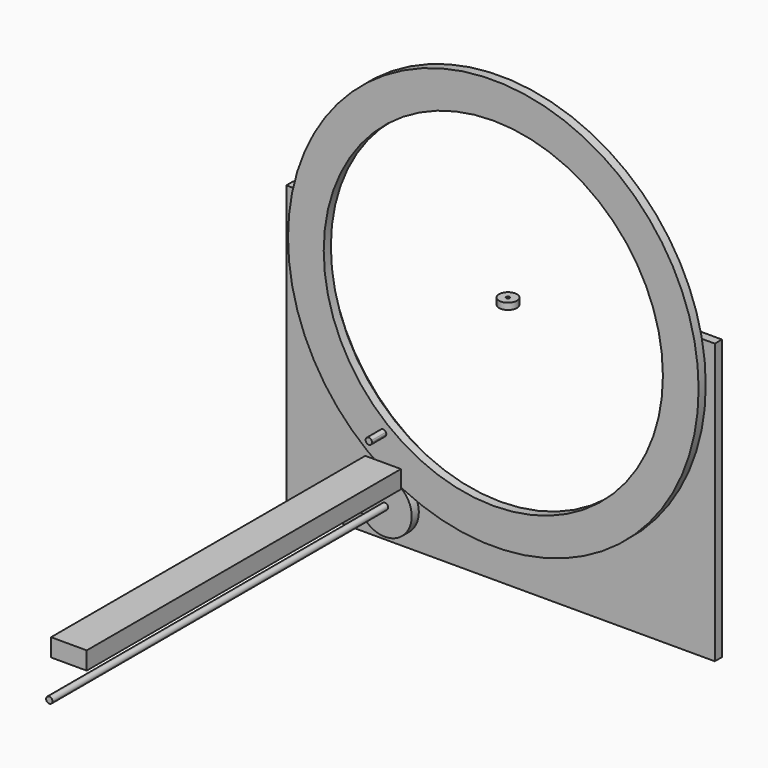
from build123d import *

# Parameters (mm, degrees)
F0_R     = 575
F0_R_2   = 475
F1_DEPTH = 25
F0_R_3   = 75
F0_R_4   = 9
F2_DEPTH = 1200
F3_R     = 25
F3_R_2   = 5
F4_DEPTH = 18
F5_R     = 75
F5_R_2   = 9
F6_DEPTH = 25
F8_DEPTH = 50
F9_DEPTH = 1100


with BuildPart() as f1:
    # F0 (on Front) → F1 (new body)
    with BuildSketch(Plane.XZ):
        Circle(F0_R)
        Circle(F0_R_2, mode=Mode.SUBTRACT)
    extrude(amount=F1_DEPTH)


with BuildPart() as f1b:
    # F0 (on Front) → F1, piece 2 (new body)
    with BuildSketch(Plane.XZ):
        with Locations((-303.5879433155, -575)):
            Circle(F0_R_3)
        with Locations((-303.5879433155, -575)):
            Circle(F0_R_4, mode=Mode.SUBTRACT)
    extrude(amount=F1_DEPTH)


with BuildPart() as f2:
    # F0 (on Front) → F2 (new body)
    with BuildSketch(Plane.XZ):
        with Locations((-303.5879433155, -575)):
            Circle(F0_R_4)
    extrude(amount=F2_DEPTH)


with BuildPart() as f4:
    # F3 (on Top) → F4 (new body)
    with BuildSketch(Plane.XY):
        with Locations((0, 26.3223070651)):
            Circle(F3_R)
        with Locations((0, 26.3223070651)):
            Circle(F3_R_2, mode=Mode.SUBTRACT)
    extrude(amount=F4_DEPTH)


with BuildPart() as f6:
    # F5 (on Front) → F6 (new body)
    with BuildSketch(Plane.XZ):
        with BuildLine():
            ThreePointArc((564.3566034894, 110.1209521294), (572.3329655919, 55.3170543033), (575, 0))
            ThreePointArc((575, 0), (-55.3170543033, -572.3329655919), (-564.3566034894, 110.1209521294))
            Line((-564.3566034894, 110.1209521294), (-599.7295975685, 110.1209521294))
            Line((-599.7295975685, 110.1209521294), (-599.7295975685, -673.1666922569))
            Line((-599.7295975685, -673.1666922569), (600.2704024315, -673.1666922569))
            Line((600.2704024315, -673.1666922569), (600.2704024315, 110.1209521294))
            Line((600.2704024315, 110.1209521294), (564.3566034894, 110.1209521294))
        make_face()
        with Locations((-303.5879433155, -575)):
            Circle(F5_R, mode=Mode.SUBTRACT)
        with BuildLine():
            ThreePointArc((-564.3566034894, 110.1209521294), (-55.3170543033, -572.3329655919), (575, 0))
            ThreePointArc((575, 0), (572.3329655919, 55.3170543033), (564.3566034894, 110.1209521294))
            Line((564.3566034894, 110.1209521294), (486.7541368029, 110.1209521294))
            ThreePointArc((486.7541368029, 110.1209521294), (495.9704910403, 55.4029404449), (499.0553213749, 0))
            ThreePointArc((499.0553213749, 0), (-55.4029404449, -495.9704910403), (-486.7541368029, 110.1209521294))
            Line((-486.7541368029, 110.1209521294), (-564.3566034894, 110.1209521294))
        make_face()
        with Locations((-303.5879433155, -575)):
            Circle(F5_R)
        with Locations((-303.5879433155, -575)):
            Circle(F5_R_2, mode=Mode.SUBTRACT)
    extrude(amount=-F6_DEPTH)


with BuildPart() as f8:
    # F7 (on face) → F8 (new body)
    with BuildSketch(Plane.XZ.offset(25)):
        with BuildLine():
            ThreePointArc((-316.6183916588, -391.2097421513), (-310.9458954187, -404.2440885601), (-299.7197065353, -395.5237627029))
            ThreePointArc((-299.7197065353, -395.5237627029), (-299.9993806781, -393.2975738196), (-300.8210214118, -391.2097421513))
            ThreePointArc((-300.8210214118, -391.2097421513), (-308.7197065353, -386.5237627029), (-316.6183916588, -391.2097421513))
        make_face()
    extrude(amount=F8_DEPTH)


with BuildPart() as f9:
    # F7 (on face) → F9 (new body)
    with BuildSketch(Plane.XZ.offset(25)):
        with BuildLine():
            Line((-258.7197065353, -513.5066829655), (-258.7197065353, -468.2944536209))
            Line((-258.7197065353, -468.2944536209), (-333.6544690363, -468.2944536209))
            ThreePointArc((-333.6544690363, -468.2944536209), (-297.0485269979, -492.3283179022), (-258.7197065354, -513.5066829655))
        make_face()
        with BuildLine():
            ThreePointArc((-258.7197065354, -513.5066829655), (-297.0485269979, -492.3283179022), (-333.6544690363, -468.2944536209))
            Line((-333.6544690363, -468.2944536209), (-358.7197065353, -468.2944536209))
            Line((-358.7197065353, -468.2944536209), (-358.7197065353, -518.2944536209))
            Line((-358.7197065353, -518.2944536209), (-258.7197065353, -518.2944536209))
            Line((-258.7197065353, -518.2944536209), (-258.7197065353, -513.5066829655))
        make_face()
    extrude(amount=F9_DEPTH)


solid = Compound([f1.part, f1b.part, f2.part, f4.part, f6.part, f8.part, f9.part])
